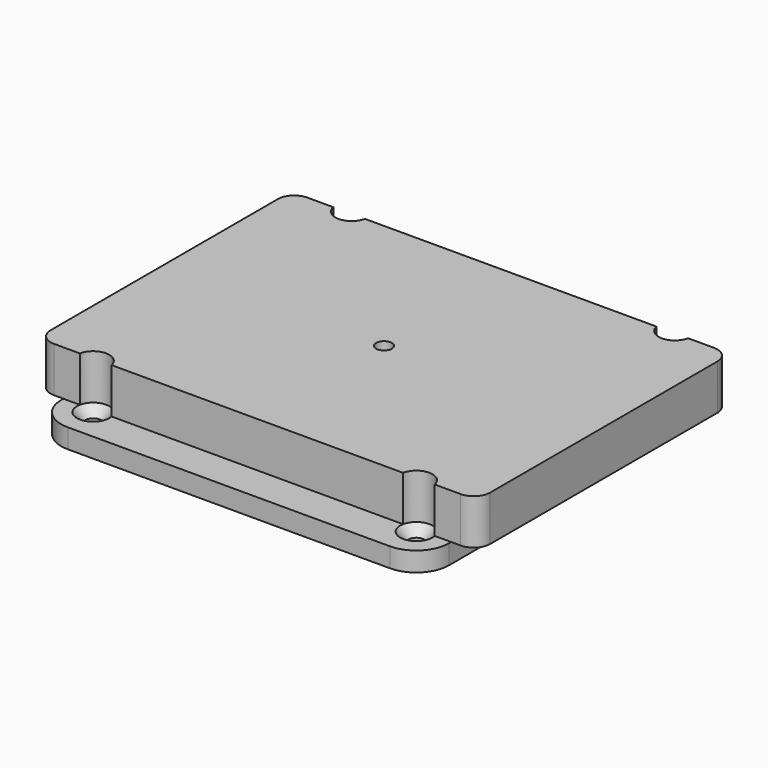
from build123d import *

# Parameters (mm, degrees)
F0_W           = 60
F0_H           = 60
F1_DEPTH       = 3
F3_D           = 2.4384
F3_DEPTH       = 12.7
F3_CSINK_D     = 5.0038
F3_CSINK_ANGLE = 82
F3_TIP         = 0.7325692667
F4_R           = 5.08
F5_W           = 4
F5_H           = 49
F6_DEPTH       = 7
F7_R           = 2.54
F8_D           = 2.4384
F11_DEPTH      = 2


with BuildPart() as f1:
    # F0 (on Top) → F1 (new body)
    with BuildSketch(Plane.XY):
        Rectangle(F0_W, F0_H)
    extrude(amount=F1_DEPTH)

    # F3
    with Locations(Plane.XY.offset(3)):
        with Locations((-25, 25), (-25, -25), (25, -25), (25, 25)):
            CounterSinkHole(F3_D / 2, F3_CSINK_D / 2, depth=F3_DEPTH, counter_sink_angle=F3_CSINK_ANGLE)
            with Locations((0, 0, -(F3_DEPTH + F3_TIP / 2))):  # 118° drill point
                Cone(0, F3_D / 2, F3_TIP, mode=Mode.SUBTRACT)

    # F4
    f4_edges = [f1.edges().sort_by_distance(p)[0] for p in [
        (30, -30, 1.5),
        (-30, -30, 1.5),
        (30, 30, 1.5),
        (-30, 30, 1.5),
    ]]
    fillet(f4_edges, radius=F4_R)

    # F5 (on face) → F6 (join)
    with BuildSketch(Plane.XY.offset(3)):
        with Locations((32, 0)):
            Rectangle(F5_W, F5_H)
        with BuildLine():
            Line((30, -24.5), (30, 24.5))
            Line((30, 24.5), (27.4505423019, 24.5))
            ThreePointArc((27.4505423019, 24.5), (25, 22.498968698), (22.5494576981, 24.5))
            Line((22.5494576981, 24.5), (-22.5494576981, 24.5))
            ThreePointArc((-22.5494576981, 24.5), (-25, 22.498968698), (-27.4505423019, 24.5))
            Line((-27.4505423019, 24.5), (-30, 24.5))
            Line((-30, 24.5), (-30, -24.5))
            Line((-30, -24.5), (-27.4505423019, -24.5))
            ThreePointArc((-27.4505423019, -24.5), (-25, -22.498968698), (-22.5494576981, -24.5))
            Line((-22.5494576981, -24.5), (22.5494576981, -24.5))
            ThreePointArc((22.5494576981, -24.5), (25, -22.498968698), (27.4505423019, -24.5))
            Line((27.4505423019, -24.5), (30, -24.5))
        make_face()
        with Locations((-32, 0)):
            Rectangle(F5_W, F5_H)
    extrude(amount=F6_DEPTH)

    # F7
    f7_edges = [f1.edges().sort_by_distance(p)[0] for p in [
        (-34, -24.5, 6.5),
        (34, -24.5, 6.5),
        (34, 24.5, 6.5),
        (-34, 24.5, 6.5),
    ]]
    fillet(f7_edges, radius=F7_R)

    # F8 (through all)
    with Locations(Plane(origin=(0, 0, 0), x_dir=(1, 0, 0), z_dir=(0, 0, -1))):
        with Locations((0, 0)):
            Hole(F8_D / 2)

    # F10 (on face) → F11 (cut)
    with BuildSketch(Plane(origin=(0, 0, 0), x_dir=(1, 0, 0), z_dir=(0, 0, -1))):
        with BuildLine():
            Line((-0.9623644593, -1.3136032181), (-0.9623644593, -31.3395906546))
            Line((-0.9623644593, -31.3395906546), (1.0376355407, -31.3395906546))
            Line((1.0376355407, -31.3395906546), (1.0376355407, -1.2549945226))
            ThreePointArc((1.0376355407, -1.2549945226), (-0.0476988335, 1.6277050066), (-0.9623644593, -1.3136032181))
        make_face()
    extrude(amount=-F11_DEPTH, mode=Mode.SUBTRACT)


solid = f1.part
